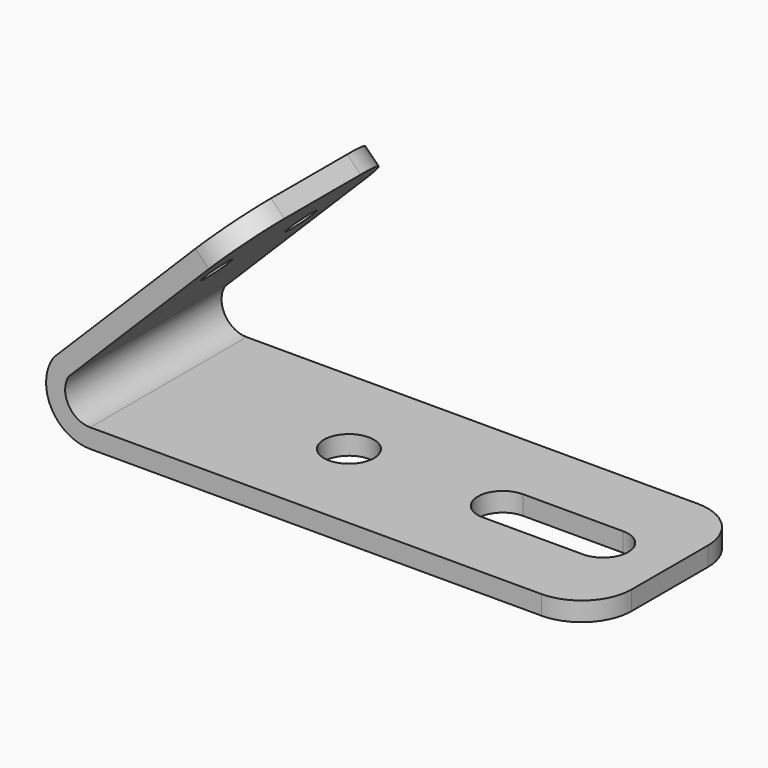
from build123d import *

# Parameters (mm, degrees)
F1_DEPTH = 247.65
F2_R     = 63.5
F3_DEPTH = 48.261
F2_W     = 254
F2_H     = 127
F4_DEPTH = 48.261
F5_R     = 38.1
F6_DEPTH = 218.44
F7_DEPTH = 218.44
F8_R     = 127


with BuildPart() as f1:
    # F0 (on Front) → F1 (new body, symmetric)
    with BuildSketch(Plane.XZ):
        with BuildLine():
            ThreePointArc((-712.5918887531, 174.2182937558), (-718.5813490984, 59.272102872), (-619.9136327213, 0))
            Line((-619.9136327213, 0), (650.0863672787, 0))
            Line((650.0863672787, 0), (650.0863672787, 48.26))
            Line((650.0863672787, 48.26), (-619.9136327213, 48.26))
            ThreePointArc((-619.9136327213, 48.26), (-675.0054873243, 80.18251504), (-674.7061432771, 143.8540927118))
            Line((-674.7061432771, 143.8540927118), (-229.4541094396, 589.1061265492))
            Line((-229.4541094396, 589.1061265492), (-263.5790826997, 623.2310998093))
            Line((-263.5790826997, 623.2310998093), (-712.5918887531, 174.2182937558))
        make_face()
    extrude(amount=F1_DEPTH, both=True)

    # F2 (on face) → F3 (cut, through all)
    with BuildSketch(Plane.XY.offset(48.26)):
        with Locations((-162.7136327213, 0)):
            Circle(F2_R)
    extrude(amount=-F3_DEPTH, mode=Mode.SUBTRACT)

    # F2 (on face) → F4 (cut, through all)
    with BuildSketch(Plane.XY.offset(48.26)):
        with Locations((354.1763672787, 0)):
            Rectangle(F2_W, F2_H)
        with BuildLine():
            ThreePointArc((227.1763672787, 63.5), (163.6763672787, 0), (227.1763672787, -63.5))
            Line((227.1763672787, -63.5), (227.1763672787, 63.5))
        make_face()
        with BuildLine():
            Line((481.1763672787, 63.5), (481.1763672787, -63.5))
            ThreePointArc((481.1763672787, -63.5), (544.6763672787, 0), (481.1763672787, 63.5))
        make_face()
    extrude(amount=-F4_DEPTH, mode=Mode.SUBTRACT)

    # F5 (on face) → F6 (cut)
    with BuildSketch(Plane(origin=(-443.4050912545, 0, 443.4050912545), x_dir=(0, -1, 0), z_dir=(-0.7071067812, 0, 0.7071067812))):
        with Locations((133.35, 25.7123801656)):
            Circle(F5_R)
    extrude(amount=-F6_DEPTH, mode=Mode.SUBTRACT)

    # F5 (on face) → F7 (cut)
    with BuildSketch(Plane(origin=(-443.4050912545, 0, 443.4050912545), x_dir=(0, -1, 0), z_dir=(-0.7071067812, 0, 0.7071067812))):
        with Locations((-133.35, 25.7123801656)):
            Circle(F5_R)
    extrude(amount=-F7_DEPTH, mode=Mode.SUBTRACT)

    # F8
    f8_edges = [f1.edges().sort_by_distance(p)[0] for p in [
        (650.086367, -247.65, 24.13),
        (650.086367, 247.65, 24.13),
        (-246.516596, -247.65, 606.168613),
        (-246.516596, 247.65, 606.168613),
    ]]
    fillet(f8_edges, radius=F8_R)


solid = f1.part
